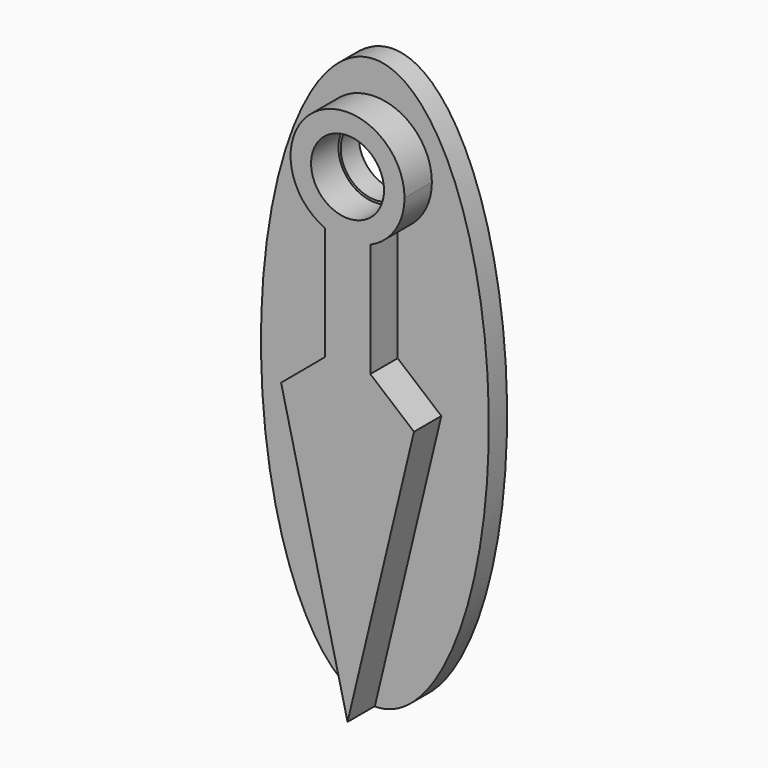
from build123d import *

# Parameters (mm, degrees)
F0_R     = 3.2
F1_DEPTH = 5
F3_DEPTH = 2
F4_R     = 3
F5_DEPTH = 5


with BuildPart() as f1:
    # F0 (on Front) → F1 (new body)
    with BuildSketch(Plane.XZ):
        Polygon((2, -14.582576), (-2, -14.582576), (-5.830222, -17.796514), (0, -42.10718), (5.830222, -17.796514), align=None)
        with BuildLine():
            ThreePointArc((2, -4.582576), (0, -5), (-2, -4.582576))
            Line((-2, -4.582576), (-2, -14.582576))
            Line((-2, -14.582576), (2, -14.582576))
            Line((2, -14.582576), (2, -4.582576))
        make_face()
        with BuildLine():
            ThreePointArc((2, -4.582576), (4.1833, -2.738613), (5, 0))
            ThreePointArc((5, 0), (-2.738613, 4.1833), (-2, -4.582576))
            ThreePointArc((-2, -4.582576), (0, -5), (2, -4.582576))
        make_face()
        Circle(F0_R, mode=Mode.SUBTRACT)
    extrude(amount=F1_DEPTH)

    # F2 (on Front) → F3 (join)
    with BuildSketch(Plane.XZ):
        with BuildLine():
            add(Edge.make_bspline(
                [(0, 7.860825), (-17.320508, 7.860825), (-8.660254, -29.639175), (0, -67.139175), (8.660254, -29.639175), (17.320508, 7.860825), (0, 7.860825)],
                knots=[0, 0, 0, 2.094395, 2.094395, 4.18879, 4.18879, 6.283185, 6.283185, 6.283185], degree=2, weights=[1, 0.5, 1, 0.5, 1, 0.5, 1]))
        make_face()
    extrude(amount=F3_DEPTH)

    # F4 (on face) → F5 (cut)
    with BuildSketch(Plane.XZ.offset(2)):
        Circle(F4_R)
    extrude(amount=-F5_DEPTH, mode=Mode.SUBTRACT)


solid = f1.part
